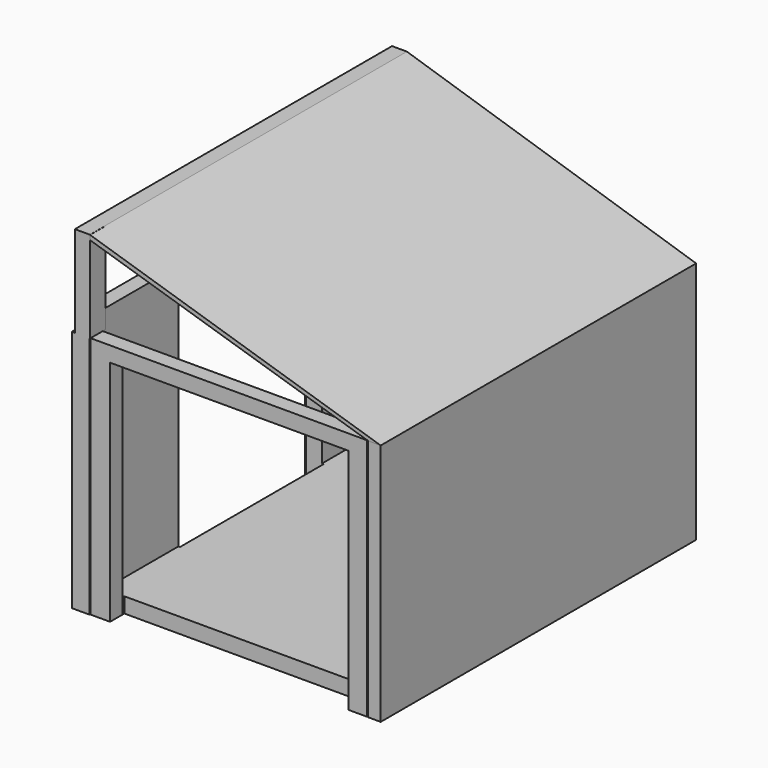
from build123d import *

# Parameters (mm, degrees)
F0_W       = 91.7312130332
F0_H       = 5.0961747766
F1_DEPTH   = 81.28
F2_W       = 92.7664116025
F2_H       = 122.1723817289
F3_DEPTH   = 5.08
F4_W       = 92.4087017775
F4_H       = 5.0977095962
F5_DEPTH   = 81.28
F6_W       = 4.1953362525
F6_H       = 131.6875554621
F7_DEPTH   = 81.28
F8_W       = 1.5788935125
F8_H       = 4.9622580409
F9_DEPTH   = 81.28
F10_W      = 4.9622431397
F10_H      = 132.4018239975
F11_DEPTH  = 111.76
F11_FACE_W = 4.9622431397
F11_FACE_H = 132.4018239975
F7_FACE_W  = 4.1953362525
F7_FACE_H  = 131.6875554621
F13_W      = 5.413364619
F13_H      = 35.8635243028
F14_DEPTH  = 81.28
F15_W      = 5.8644749224
F15_H      = 59.9981006235
F16_DEPTH  = 81.28
F17_W      = 5.8644749224
F17_H      = 37.2168645263
F18_DEPTH  = 81.28
F19_W      = 79.6215347946
F19_H      = 6.5411478281
F20_DEPTH  = 76.2
F21_W      = 120.1766468585
F21_H      = 16.6912078857
F22_DEPTH  = 7.62
F23_W      = 6.415002048
F23_H      = 30.48
F24_DEPTH  = 5.08


with BuildPart() as f1:
    # F0 (on Top) → F1 (new body)
    with BuildSketch(Plane.XY):
        with Locations((0, 56.5675832331)):
            Rectangle(F0_W, F0_H)
    extrude(amount=F1_DEPTH)

    # F2 (on Top) → F3 (join)
    with BuildSketch(Plane.XY):
        with Locations((0.5685612559, -6.0559604317)):
            Rectangle(F2_W, F2_H)
    extrude(amount=F3_DEPTH)

    # F10 (on Top) → F11 (join)
    with BuildSketch(Plane.XY):
        with Locations((-48.3341515064, -6.4534246922)):
            Rectangle(F10_W, F10_H)
    extrude(amount=F11_DEPTH)

    # F13 (on Top) → F14 (join)
    with BuildSketch(Plane.XY):
        with Locations((-48.6552622169, 42.0412803069)):
            Rectangle(F13_W, F13_H)
    extrude(amount=F14_DEPTH)

    # F15 (on Top) → F16 (cut)
    with BuildSketch(Plane.XY):
        with Locations((-48.2041481882, -5.6639770046)):
            Rectangle(F15_W, F15_H)
    extrude(amount=F16_DEPTH, mode=Mode.SUBTRACT)

    # F17 (on Top) → F18 (join)
    with BuildSketch(Plane.XY):
        with Locations((-48.8808173686, -54.0459044278)):
            Rectangle(F17_W, F17_H)
    extrude(amount=F18_DEPTH)


with BuildPart() as f5:
    # F4 (on Top) → F5 (new body)
    with BuildSketch(Plane.XY):
        with Locations((0.404253602, -69.9054412544)):
            Rectangle(F4_W, F4_H)
    extrude(amount=F5_DEPTH)


with BuildPart() as f7:
    # F6 (on Top) → F7 (new body)
    with BuildSketch(Plane.XY):
        with Locations((49.1117332131, -6.6685359925)):
            Rectangle(F6_W, F6_H)
    extrude(amount=F7_DEPTH)


with BuildPart() as f9:
    # F8 (on Top) → F9 (new body)
    with BuildSketch(Plane.XY):
        with Locations((46.4169178158, 56.4142502844)):
            Rectangle(F8_W, F8_H)
    extrude(amount=F9_DEPTH)


with BuildPart() as f12:
    # F11_face (on face) → F12 section 0
    with BuildSketch(Plane(origin=(-48.3341515064, -6.4534246922, 111.76), x_dir=(1, 0, 0), z_dir=(0, 0, 1))):
        Rectangle(F11_FACE_W, F11_FACE_H)
    # F7_face (on face) → F12 section 1
    with BuildSketch(Plane(origin=(49.1117332131, -6.6685359925, 81.28), x_dir=(1, 0, 0), z_dir=(0, 0, 1))):
        Rectangle(F7_FACE_W, F7_FACE_H)
    loft()


with BuildPart() as f20_tool:
    # F19 (on Top) → F20 (new body)
    with BuildSketch(Plane.XY):
        with Locations((0.5889479071, -69.7448179126)):
            Rectangle(F19_W, F19_H)
    extrude(amount=F20_DEPTH)


with BuildPart() as f1_1:
    add(f1.part)

    # F20: cut by f20_tool
    add(f20_tool.part, mode=Mode.SUBTRACT)

    # F21 (on face) → F22 (cut)
    with BuildSketch(Plane(origin=(-50.8152730763, 0, 0), x_dir=(0, -1, 0), z_dir=(-1, 0, 0))):
        with Locations((6.1510112137, 95.8702862263)):
            Rectangle(F21_W, F21_H)
    extrude(amount=-F22_DEPTH, mode=Mode.SUBTRACT)

    # F23 (on face) → F24 (join)
    with BuildSketch(Plane(origin=(-50.8152730763, 0, 0), x_dir=(0, -1, 0), z_dir=(-1, 0, 0))):
        with Locations((69.4468356669, 96.52)):
            Rectangle(F23_W, F23_H)
    extrude(amount=-F24_DEPTH)


with BuildPart() as f5_1:
    add(f5.part)

    # F20: cut by f20_tool
    add(f20_tool.part, mode=Mode.SUBTRACT)


solid = Compound([f7.part, f9.part, f12.part, f1_1.part, f5_1.part])
